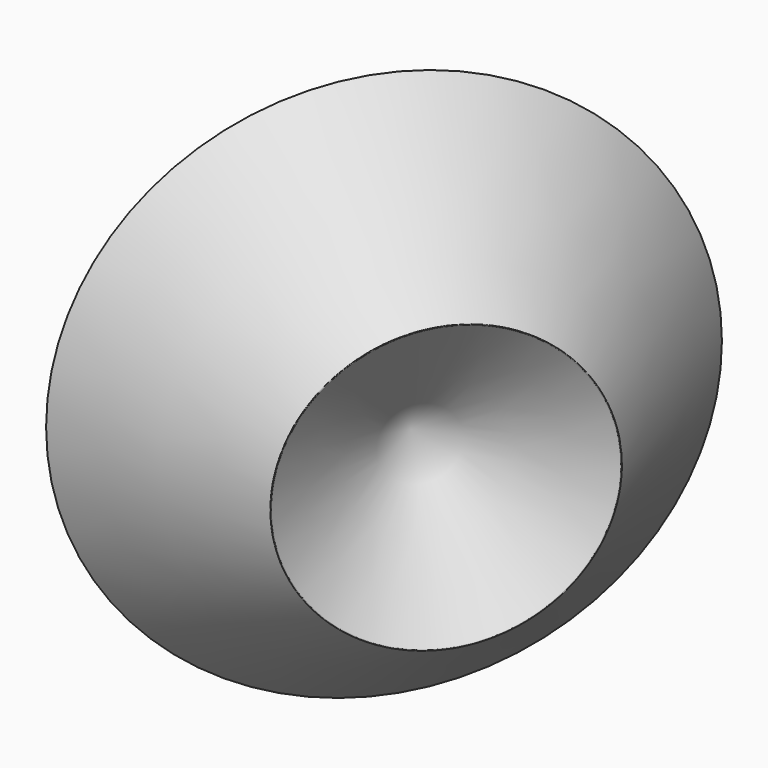
from build123d import *

# Parameters (mm, degrees)
F2_R = 0.127


with BuildPart() as f1:
    # F0 (on Top) → F1 (revolve)
    with BuildSketch(Plane.XY):
        Polygon((-1.7852237216, 24.8886086047), (-22.7509364486, 24.8886086047), (-22.7509364486, -35.2715849876), (27.3316595703, -35.2715849876), (27.3316595703, 3.842167726), align=None)
    revolve(axis=Axis((12.3679591343, 14.6583197638, 0), (0.8104468988, -0.5858121066, 0)))

    # F2
    f2_edges = [f1.edges().sort_by_distance(p)[0] for p in [
        (64.471701, 16.110132, 0),
    ]]
    fillet(f2_edges, radius=F2_R)


solid = f1.part
